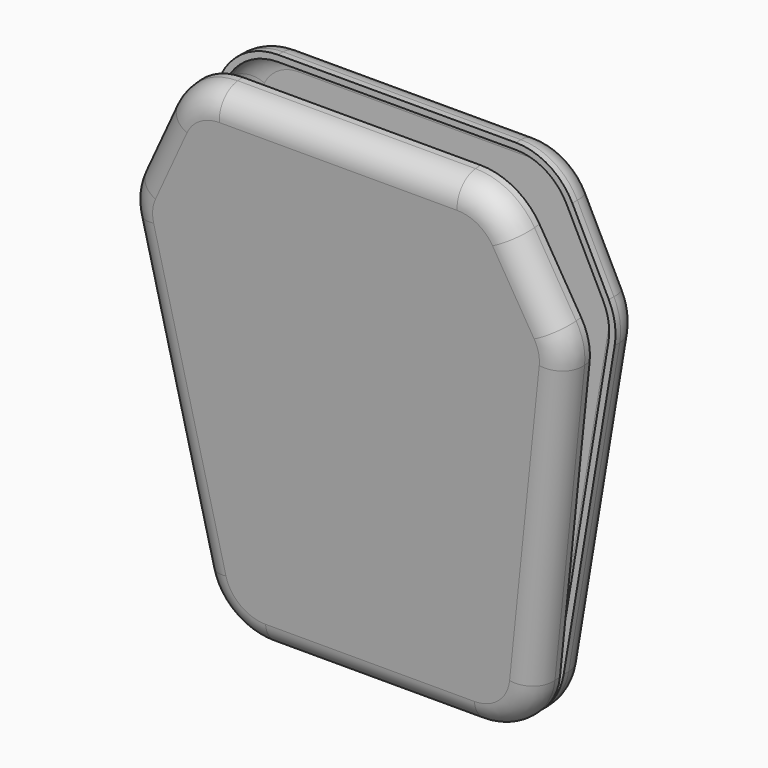
from build123d import *

# Parameters (mm, degrees)
F1_DEPTH = 25
F2_R     = 50
F3_R     = 20
F4_T     = -5
F6_ANGLE = 5


with BuildPart() as f1:
    # F0 (on Front) → F1 (new body)
    with BuildSketch(Plane.XZ):
        Polygon((-175, 100), (-125, -200), (125, -200), (175, 100), (125, 200), (-125, 200), align=None)
    extrude(amount=-F1_DEPTH)

    # F2
    f2_edges = [f1.edges().sort_by_distance(p)[0] for p in [
        (125, 12.5, -200),
        (-125, 12.5, -200),
        (-125, 12.5, 200),
        (125, 12.5, 200),
        (175, 12.5, 100),
        (-175, 12.5, 100),
    ]]
    fillet(f2_edges, radius=F2_R)

    # F3
    f3_edges = [f1.edges().sort_by_distance(p)[0] for p in [
        (-152.145174, 25, -37.128958),
        (-172.451457, 25, 99.616782),
        (-114.96239, 25, -188.150999),
        (-153.274164, 25, 143.451671),
        (0, 25, -200),
        (-120.384856, 25, 192.53254),
        (114.96239, 25, -188.150999),
        (0, 25, 200),
        (152.145174, 25, -37.128958),
        (120.384856, 25, 192.53254),
        (172.451457, 25, 99.616782),
        (153.274164, 25, 143.451671),
    ]]
    fillet(f3_edges, radius=F3_R)

    # F4
    f4_openings = [f1.faces().sort_by_distance(p)[0] for p in [
        (0, 0, 6.193592),
    ]]
    offset(amount=F4_T, openings=f4_openings)


with BuildPart() as f5_1:
    # F5: instance of F1
    add(f1.part.mirror(Plane.XZ))


with BuildPart() as f5_1_1:
    # F6: moved
    add(f5_1.part.rotate(Axis((0, 0, -200), (1, 0, 0)), F6_ANGLE))


solid = Compound([f1.part, f5_1_1.part])
